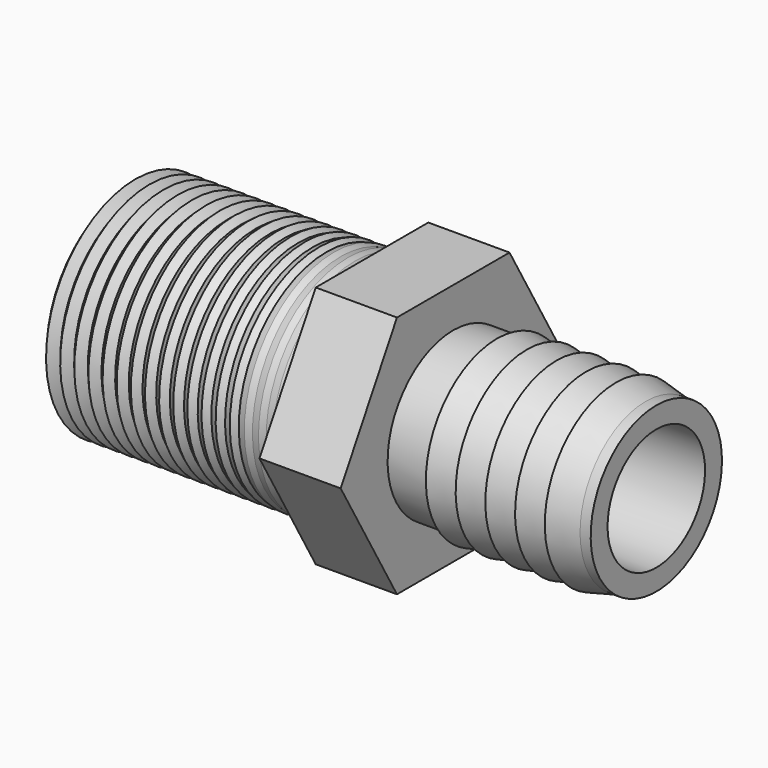
from build123d import *

# Parameters (mm, degrees)
F2_R     = 13.989473
F3_DEPTH = 12.7


with BuildPart() as f1:
    # F0 (on Front) → F1 (revolve)
    with BuildSketch(Plane.XZ):
        Polygon((31.75, 9.525), (31.75, 12.827), (30.089011, 12.827), (25.435938, 13.9065), (25.435938, 12.827), (20.792535, 13.9065), (20.792535, 12.827), (16.138896, 13.9065), (16.138896, 12.827), (11.50163, 13.9065), (11.50163, 12.827), (6.845678, 13.9065), (6.845678, 12.827), (0, 12.827), (0, 19.05), (-12.7, 19.05), (-12.7, 17.4625), (-14.270274, 17.4625), (-15.375174, 17.355415), (-16.480074, 17.4625), (-17.584974, 17.266958), (-18.689874, 17.4625), (-19.794774, 17.178502), (-20.9677, 17.4625), (-22.004574, 17.090045), (-23.1775, 17.4625), (-24.214374, 17.001589), (-25.3873, 17.4625), (-26.424174, 16.913132), (-27.5971, 17.4625), (-28.633974, 16.824676), (-29.8069, 17.4625), (-30.917105, 16.733284), (-32.0167, 17.4625), (-33.126905, 16.644828), (-34.2265, 17.4625), (-35.336705, 16.556371), (-36.4363, 17.4625), (-37.546505, 16.467915), (-38.6461, 17.4625), (-39.756305, 16.379458), (-40.8559, 17.4625), (-41.964337, 16.291072), (-43.0657, 17.4625), (-44.172368, 16.202687), (-45.2755, 17.4625), (-46.3804, 16.114301), (-47.4853, 17.4625), (-48.5902, 16.025844), (-49.6951, 17.4625), (-50.8, 15.937388), (-50.8, 13.9065), (-50.8, 12.827), (-6.947381, 12.827), (-2.700698, 9.525), (0, 9.525), align=None)
    revolve(axis=Axis((-35.757494, 0, 0), (1, 0, 0)))

    # F2 (on face) → F3 (join)
    with BuildSketch(Plane.YZ):
        Polygon((10.998523, 19.05), (-10.998523, 19.05), (-21.997045, 0), (-10.998523, -19.05), (10.998523, -19.05), (21.997045, 0), align=None)
        Circle(F2_R, mode=Mode.SUBTRACT)
    extrude(amount=-F3_DEPTH)


solid = f1.part
